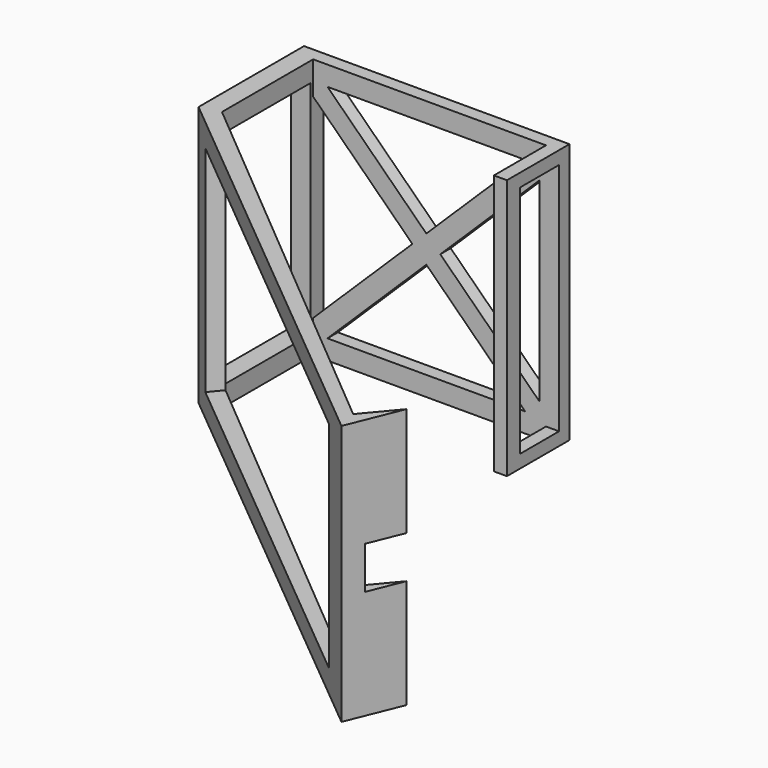
from build123d import *

# Parameters (mm, degrees)
PAD_DEPTH       = 80
POCKET_DEPTH    = 5
SKETCH002_W     = 33
SKETCH002_H     = 68
POCKET001_DEPTH = 9
SKETCH003_W     = 146.126759
SKETCH003_H     = 66
POCKET002_DEPTH = 5
SKETCH004_W     = 15
SKETCH004_H     = 72
POCKET003_DEPTH = 5
SKETCH005_W     = 20
SKETCH005_H     = 13
POCKET004_DEPTH = 5


with BuildPart() as part:
    # Sketch → Pad (new body)
    with BuildSketch(Plane.XY):
        Polygon((0, 0), (81.5, 0), (81.5, -24), (77.5, -24), (77.5, -4), (6, -4), (6, -39), (128.567111, -141.846018), (136.92335, -131.88744), (130.220486, -148.411324), (0, -40.492439), align=None)
    extrude(amount=PAD_DEPTH)

    # Sketch001 (on Face1 of Pad) → Pocket (cut)
    with BuildSketch(Plane(origin=(0, 0, 0), x_dir=(-1, 0, 0), z_dir=(0, 1, 0))):
        Polygon((-40.75, 35.796221), (-71.1049, 6), (-10.3951, 6), align=None)
        Polygon((-75.5, 69.90665), (-75.5, 10.09335), (-45.0326, 40), align=None)
        Polygon((-71.1049, 74), (-40.75, 44.203779), (-10.3951, 74), align=None)
        Polygon((-6, 69.90665), (-6, 10.09335), (-36.4674, 40), align=None)
    extrude(amount=-POCKET_DEPTH, mode=Mode.SUBTRACT)

    # Sketch002 (on Face22 of Pocket) → Pocket001 (cut)
    with BuildSketch(Plane.YZ.offset(6)):
        with Locations((-21.5, 40)):
            Rectangle(SKETCH002_W, SKETCH002_H)
    extrude(amount=-POCKET001_DEPTH, mode=Mode.SUBTRACT)

    # Sketch003 (on Face18 of Pocket001) → Pocket002 (cut)
    with BuildSketch(Plane(origin=(-19.89418, -24.005342, 0), x_dir=(0.769958, -0.638095, 0), z_dir=(-0.638095, -0.769958, 0))):
        with Locations((106.901389, 40)):
            Rectangle(SKETCH003_W, SKETCH003_H)
    extrude(amount=-POCKET002_DEPTH, mode=Mode.SUBTRACT)

    # Sketch004 (on Face5 of Pocket002) → Pocket003 (cut)
    with BuildSketch(Plane.YZ.offset(81.5)):
        with Locations((-11.5, 40)):
            Rectangle(SKETCH004_W, SKETCH004_H)
    extrude(amount=-POCKET003_DEPTH, mode=Mode.SUBTRACT)

    # Sketch005 (on Face29 of Pocket003) → Pocket004 (cut)
    with BuildSketch(Plane(origin=(163.516532, -66.32999, 0), x_dir=(0.375897, 0.926661, 0), z_dir=(0.926661, -0.375897, 0))):
        with Locations((-72.115176, 40)):
            Rectangle(SKETCH005_W, SKETCH005_H)
    extrude(amount=-POCKET004_DEPTH, mode=Mode.SUBTRACT)


solid = part.part
